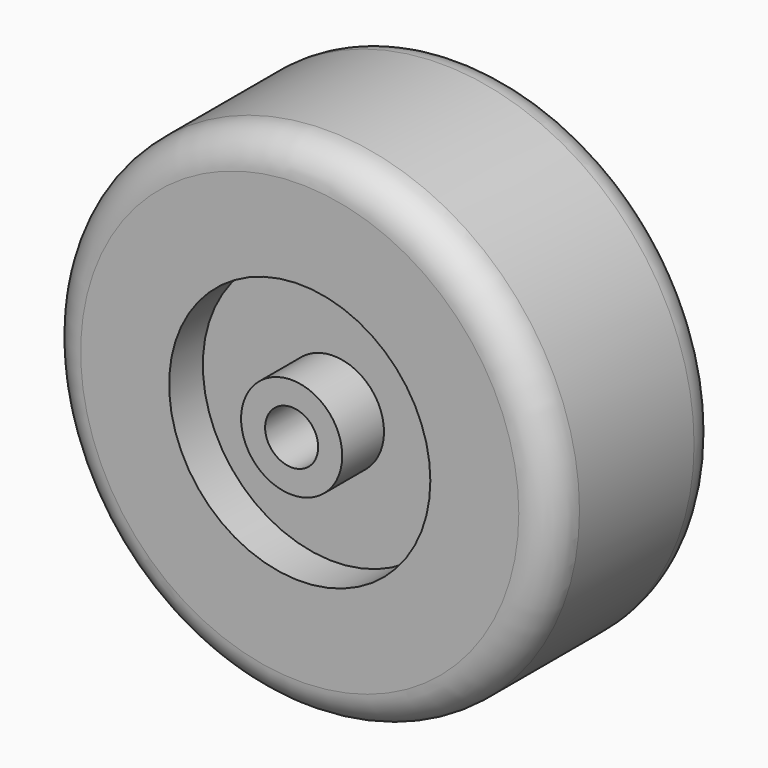
from build123d import *

# Parameters (mm, degrees)
F0_R     = 38.1
F0_R_2   = 19.685
F1_DEPTH = 15.875
F0_R_3   = 7.62
F0_R_4   = 4.0005
F2_DEPTH = 12.065
F0_R_5   = 8.89
F3_DEPTH = 9.525
F4_R     = 7.62
F4_R_2   = 4.0005
F5_DEPTH = 5.334
F6_R     = 5.08


with BuildPart() as f1:
    # F0 (on Front) → F1 (new body, symmetric)
    with BuildSketch(Plane.XZ):
        Circle(F0_R)
        Circle(F0_R_2, mode=Mode.SUBTRACT)
    extrude(amount=F1_DEPTH, both=True)

    # F6
    f6_edges = [f1.edges().sort_by_distance(p)[0] for p in [
        (-38.1, -15.875, 0),
        (-38.1, 15.875, 0),
    ]]
    fillet(f6_edges, radius=F6_R)


with BuildPart() as f2:
    # F0 (on Front) → F2 (new body, symmetric)
    with BuildSketch(Plane.XZ):
        Circle(F0_R_3)
        Circle(F0_R_4, mode=Mode.SUBTRACT)
    extrude(amount=F2_DEPTH, both=True)

    # F4 (on face) → F5 (join)
    with BuildSketch(Plane.XZ.offset(12.065)):
        Circle(F4_R)
        Circle(F4_R_2, mode=Mode.SUBTRACT)
    extrude(amount=F5_DEPTH)


with BuildPart() as f3:
    # F0 (on Front) → F3 (new body, symmetric)
    with BuildSketch(Plane.XZ):
        Circle(F0_R_2)
        Circle(F0_R_5, mode=Mode.SUBTRACT)
        Circle(F0_R_5)
        Circle(F0_R_3, mode=Mode.SUBTRACT)
    extrude(amount=F3_DEPTH, both=True)


solid = Compound([f1.part, f2.part, f3.part])
